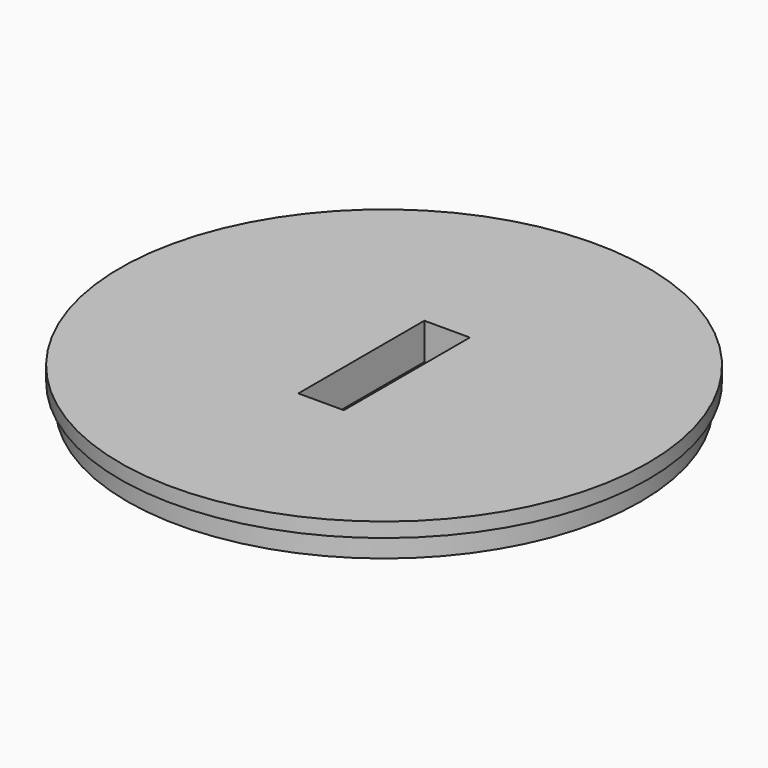
from build123d import *

# Parameters (mm, degrees)
F0_R     = 35.3
F1_DEPTH = 3
F3_R     = 36.3
F4_DEPTH = 2
F5_W     = 6.26
F5_H     = 21.66028
F6_DEPTH = 25


with BuildPart() as f1:
    # F0 (on Top) → F1 (new body)
    with BuildSketch(Plane.XY):
        Circle(F0_R)
    extrude(amount=F1_DEPTH)

    # F3 (on offset) → F4 (join)
    with BuildSketch(Plane.XY.offset(3)):
        Circle(F3_R)
    extrude(amount=F4_DEPTH)

    # F5 (on face) → F6 (cut)
    with BuildSketch(Plane.XY.offset(5)):
        with Locations((0, -0.00014)):
            Rectangle(F5_W, F5_H)
    extrude(amount=-F6_DEPTH, mode=Mode.SUBTRACT)


solid = f1.part
